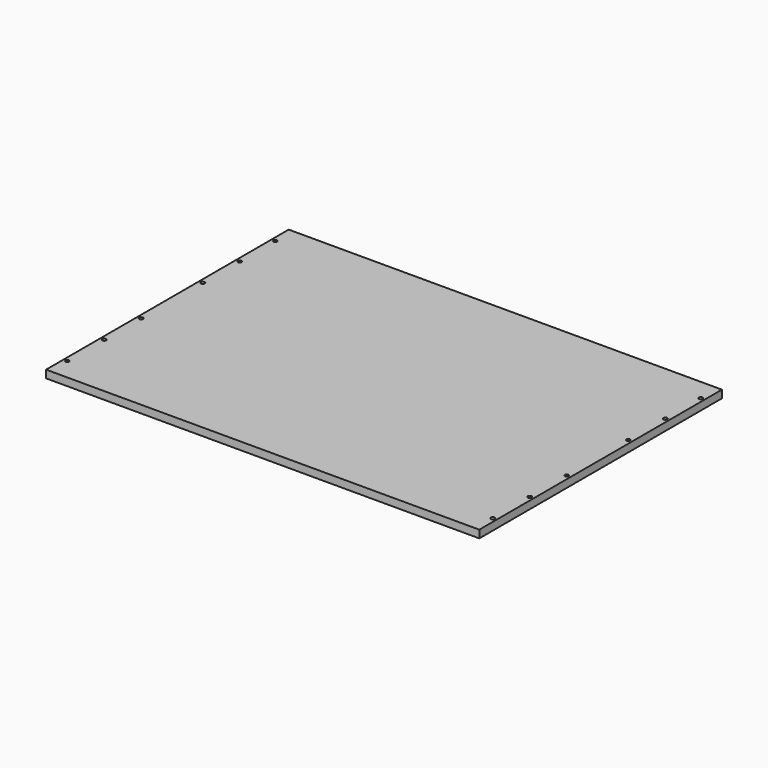
from build123d import *

# Parameters (mm, degrees)
F0_W     = 630
F0_H     = 16
F1_DEPTH = 450
F2_R     = 4
F3_DEPTH = 14


with BuildPart() as f1:
    # F0 (on Right) → F1 (new body, symmetric)
    with BuildSketch(Plane.YZ):
        with Locations((-4.13572, -40.90703)):
            Rectangle(F0_W, F0_H)
    extrude(amount=F1_DEPTH, both=True)

    # F2 (on face) → F3 (cut)
    with BuildSketch(Plane.XY.offset(-32.90703)):
        with Locations((-442, -274.13572)):
            Circle(F2_R)
        with Locations((-442, -178.13572)):
            Circle(F2_R)
        with Locations((-442, -82.13572)):
            Circle(F2_R)
        with Locations((-442, 77.86428)):
            Circle(F2_R)
        with Locations((-442, 173.86428)):
            Circle(F2_R)
        with Locations((-442, 265.86428)):
            Circle(F2_R)
        with Locations((442, 265.86428)):
            Circle(F2_R)
        with Locations((442, -274.13572)):
            Circle(F2_R)
        with Locations((442, 173.86428)):
            Circle(F2_R)
        with Locations((442, 77.86428)):
            Circle(F2_R)
        with Locations((442, -178.13572)):
            Circle(F2_R)
        with Locations((442, -82.13572)):
            Circle(F2_R)
    extrude(amount=-F3_DEPTH, mode=Mode.SUBTRACT)


solid = f1.part
